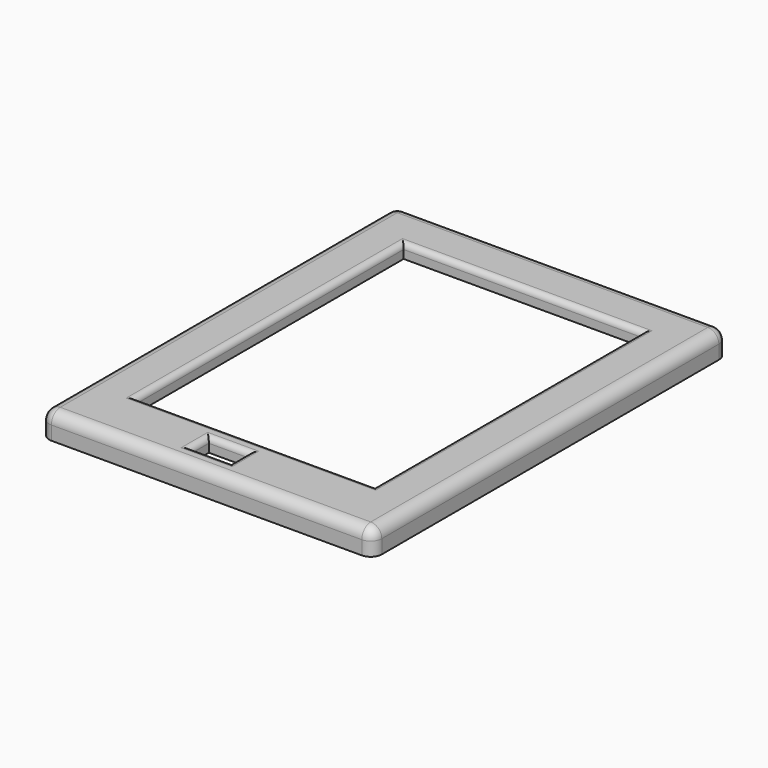
from build123d import *

# Parameters (mm, degrees)
SKETCH003_W     = 60
SKETCH003_H     = 80
PAD_DEPTH       = 2.5
SKETCH_W        = 43
SKETCH_H        = 60.3
POCKET_DEPTH    = 5
SKETCH004_W     = 60
SKETCH004_H     = 80
SKETCH004_W_2   = 56
SKETCH004_H_2   = 76
PAD001_DEPTH    = 2
SKETCH005_W     = 7.2
SKETCH005_H     = 4
POCKET001_DEPTH = 5
FILLET_R        = 2
FILLET001_R     = 1
FILLET002_R     = 1
FILLET003_R     = 2
FILLET004_R     = 0.5
FILLET005_R     = 1.1


with BuildPart() as part:
    # Sketch003 → Pad (new body)
    with BuildSketch(Plane.XY):
        with Locations((30, 40)):
            Rectangle(SKETCH003_W, SKETCH003_H)
    extrude(amount=PAD_DEPTH)

    # Sketch (on Face6 of Pad) → Pocket (cut)
    with BuildSketch(Plane.XY.offset(2.5)):
        with Locations((30, 41.15)):
            Rectangle(SKETCH_W, SKETCH_H)
    extrude(amount=-POCKET_DEPTH, mode=Mode.SUBTRACT)

    # Sketch004 (on Face4 of Pocket) → Pad001 (join)
    with BuildSketch(Plane(origin=(0, 0, 0), x_dir=(1, 0, 0), z_dir=(0, 0, -1))):
        with Locations((30, -40)):
            Rectangle(SKETCH004_W, SKETCH004_H)
        with Locations((30, -40)):
            Rectangle(SKETCH004_W_2, SKETCH004_H_2, mode=Mode.SUBTRACT)
    extrude(amount=PAD001_DEPTH)

    # Sketch005 (on Face7 of Pad001) → Pocket001 (cut)
    with BuildSketch(Plane.XY.offset(2.5)):
        with Locations((27.6, 6)):
            Rectangle(SKETCH005_W, SKETCH005_H)
    extrude(amount=-POCKET001_DEPTH, mode=Mode.SUBTRACT)

    # Fillet
    fillet_edges = [part.edges().sort_by_distance(p)[0] for p in [
        (60, 0, 0.25),
        (0, 0, 0.25),
        (0, 80, 0.25),
        (60, 80, 0.25),
    ]]
    fillet(fillet_edges, radius=FILLET_R)

    # Fillet001
    fillet001_edges = [part.edges().sort_by_distance(p)[0] for p in [
        (30, 11, 2.5),
        (8.5, 41.15, 2.5),
        (30, 71.3, 2.5),
        (51.5, 41.15, 2.5),
    ]]
    fillet(fillet001_edges, radius=FILLET001_R)

    # Fillet002
    fillet002_edges = [part.edges().sort_by_distance(p)[0] for p in [
        (27.6, 4, 2.5),
        (24, 6, 2.5),
        (27.6, 8, 2.5),
        (31.2, 6, 2.5),
    ]]
    fillet(fillet002_edges, radius=FILLET002_R)

    # Fillet003
    fillet003_edges = [part.edges().sort_by_distance(p)[0] for p in [
        (30, 0, 2.5),
        (59.414214, 0.585786, 2.5),
        (60, 40, 2.5),
        (0.585786, 0.585786, 2.5),
        (0, 40, 2.5),
        (59.414214, 79.414214, 2.5),
        (30, 80, 2.5),
        (0.585786, 79.414214, 2.5),
    ]]
    fillet(fillet003_edges, radius=FILLET003_R)

    # Fillet004
    fillet004_edges = [part.edges().sort_by_distance(p)[0] for p in [
        (30, 2, -2),
        (58, 40, -2),
        (30, 78, -2),
        (2, 40, -2),
    ]]
    fillet(fillet004_edges, radius=FILLET004_R)

    # Fillet005
    fillet005_edges = [part.edges().sort_by_distance(p)[0] for p in [
        (2, 2, -0.75),
        (58, 2, -0.75),
        (2, 78, -0.75),
        (58, 78, -0.75),
    ]]
    fillet(fillet005_edges, radius=FILLET005_R)


solid = part.part
